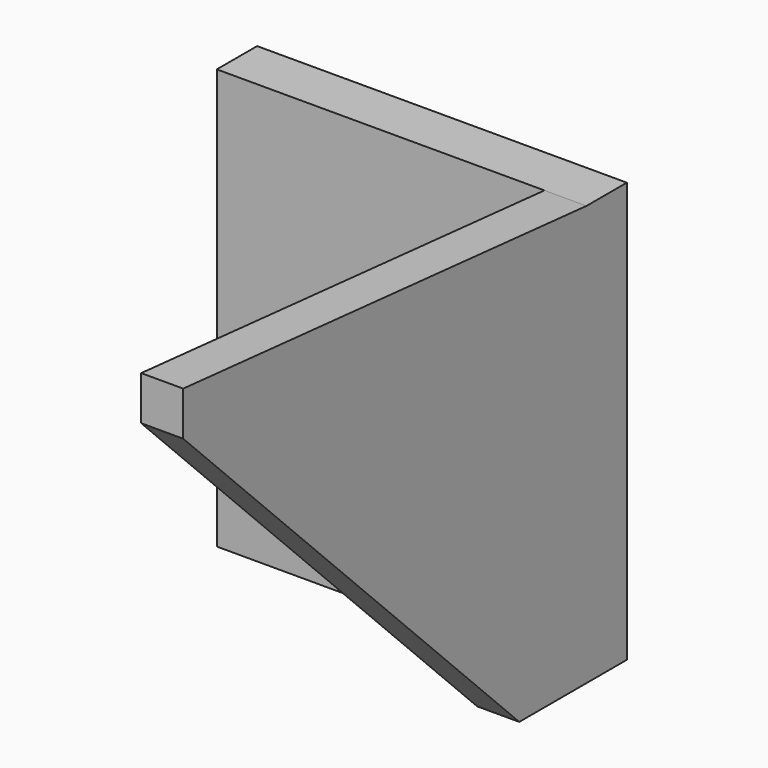
from build123d import *

# Parameters (mm, degrees)
F0_W     = 22
F0_H     = 25
F1_DEPTH = 3
F3_DEPTH = 2.5
F4_SIZE  = 25


with BuildPart() as f1:
    # F0 (on Front) → F1 (new body)
    with BuildSketch(Plane.XZ):
        Rectangle(F0_W, F0_H)
    extrude(amount=F1_DEPTH)

    # F2 (on face) → F3 (join)
    with BuildSketch(Plane.YZ.offset(11)):
        Polygon((-3, -12.5), (-3, 12.5), (-33, 15.12466), (-33, -12.5), align=None)
    extrude(amount=-F3_DEPTH)

    # F4
    f4_edges = [f1.edges().sort_by_distance(p)[0] for p in [
        (9.75, -33, -12.5),
    ]]
    chamfer(f4_edges, length=F4_SIZE)


solid = f1.part
